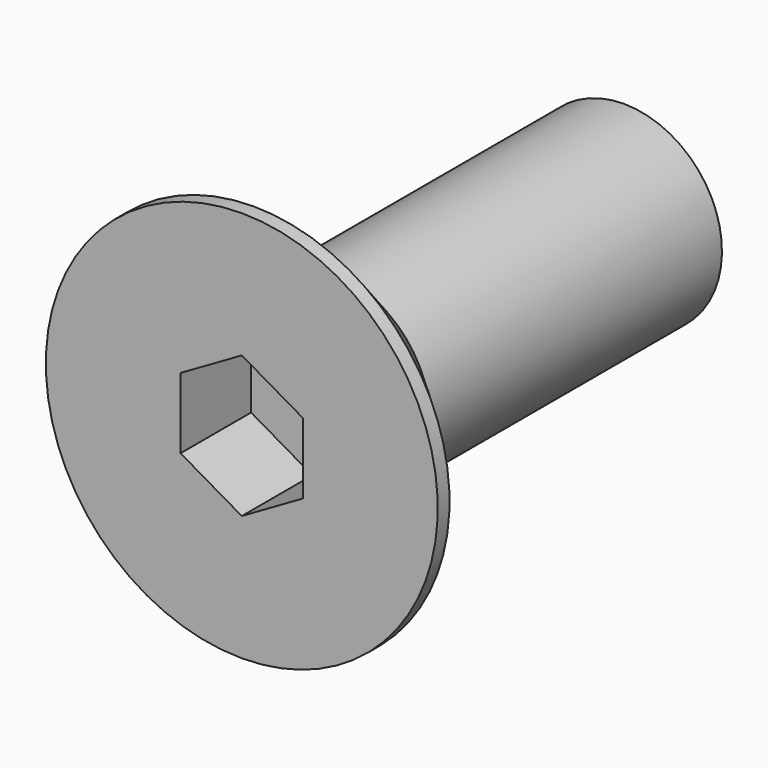
from build123d import *

# Parameters (mm, degrees)
POCKET_DEPTH = 1.8


with BuildPart() as part:
    # Sketch → Revolution (revolve)
    with BuildSketch(Plane.YZ):
        Polygon((0, 0), (0, 4), (0.3, 4), (2.3, 2), (9.751739, 2), (10, 1.57), (10, 0), align=None)
    revolve(axis=Axis((0, 0, 0), (0, 1, 0)))

    # Sketch001 → Pocket (cut)
    with BuildSketch(Plane(origin=(0, 0, 0), x_dir=(0, 0, -1), z_dir=(0, -1, 0))):
        Polygon((0.721688, 1.25), (-0.721688, 1.25), (-1.443376, 0), (-0.721688, -1.25), (0.721688, -1.25), (1.443376, 0), align=None)
    extrude(amount=-POCKET_DEPTH, mode=Mode.SUBTRACT)


solid = part.part
